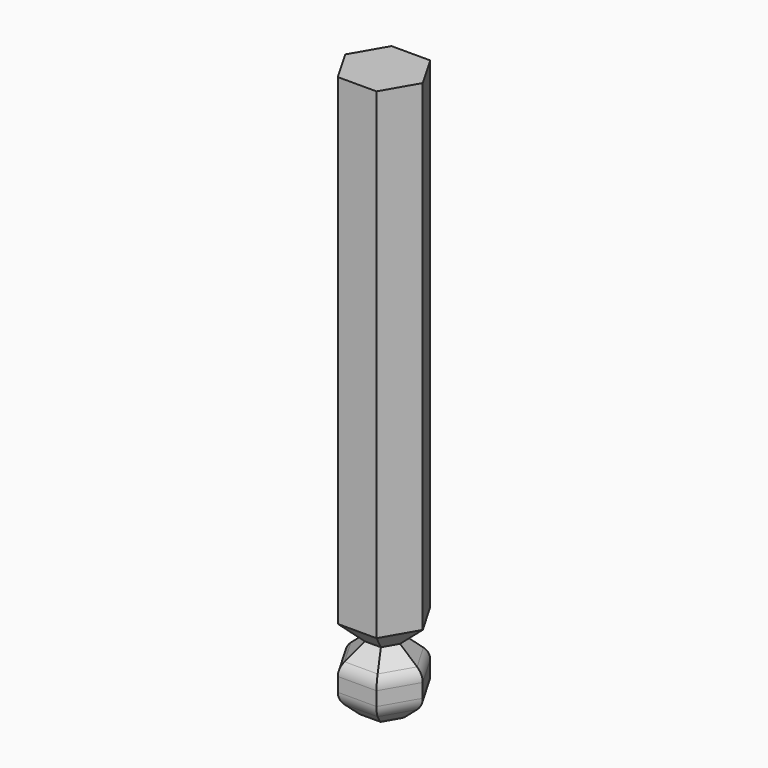
from build123d import *

# Parameters (mm, degrees)
F1_DEPTH      = 508
F7_DEPTH      = 34.6420161514
F7_DEPTH_BACK = 34.6420161514
F8_DEPTH      = 43.3022701892
F8_DEPTH_BACK = 43.3022701892
F9_DEPTH      = 43.3022701892
F9_DEPTH_BACK = 43.3022701892
F10_R         = 15


with BuildPart() as f1:
    # F0 (on Top) → F1 (new body)
    with BuildSketch(Plane.XY):
        Polygon((17.3205080757, 30), (-17.3205080757, 30), (-34.6410161514, 0), (-17.3205080757, -30), (17.3205080757, -30), (34.6410161514, 0), align=None)
    extrude(amount=F1_DEPTH)

    # F4 (on Right) → F7 (cut, two sides)
    with BuildSketch(Plane.YZ) as f7_sk:
        Polygon((12.4264068712, 60), (30, 42.4264068712), (30, 77.5735931288), align=None)
        Polygon((-30, 77.5735931288), (-30, 42.4264068712), (-12.4264068712, 60), align=None)
        Polygon((12.4264068712, 0), (-12.4264068712, 0), (-30, 17.5735931288), (-30, -5), (30, -5), (30, 17.5735931288), align=None)
    extrude(amount=F7_DEPTH, mode=Mode.SUBTRACT)
    extrude(f7_sk.sketch, amount=-F7_DEPTH_BACK, mode=Mode.SUBTRACT)

    # F5 (on mid) → F8 (cut, two sides)
    with BuildSketch(Plane(origin=(0, 0, 0), x_dir=(-0.8660254038, -0.5, 0), z_dir=(-0.5, 0.8660254038, 0))) as f8_sk:
        Polygon((12.4264068712, 60), (30, 42.4264068712), (30, 77.5735931288), align=None)
        Polygon((-30, 77.5735931288), (-30, 42.4264068712), (-12.4264068712, 60), align=None)
        Polygon((12.4264068712, 0), (-12.4264068712, 0), (-30, 17.5735931288), (-30, -5), (30, -5), (30, 17.5735931288), align=None)
    extrude(amount=F8_DEPTH, mode=Mode.SUBTRACT)
    extrude(f8_sk.sketch, amount=-F8_DEPTH_BACK, mode=Mode.SUBTRACT)

    # F6 (on mid) → F9 (cut, two sides)
    with BuildSketch(Plane(origin=(0, 0, 0), x_dir=(-0.8660254038, 0.5, 0), z_dir=(0.5, 0.8660254038, 0))) as f9_sk:
        Polygon((12.4264068712, 60), (30, 42.4264068712), (30, 77.5735931288), align=None)
        Polygon((-30, 77.5735931288), (-30, 42.4264068712), (-12.4264068712, 60), align=None)
        Polygon((12.4264068712, 0), (-12.4264068712, 0), (-30, 17.5735931288), (-30, -5), (30, -5), (30, 17.5735931288), align=None)
    extrude(amount=F9_DEPTH, mode=Mode.SUBTRACT)
    extrude(f9_sk.sketch, amount=-F9_DEPTH_BACK, mode=Mode.SUBTRACT)

    # F10
    f10_edges = [f1.edges().sort_by_distance(p)[0] for p in [
        (-25.980762, -15, 17.573593),
        (0, -30, 17.573593),
        (25.980762, -15, 17.573593),
        (25.980762, 15, 17.573593),
        (0, 30, 17.573593),
        (-25.980762, 15, 17.573593),
        (25.980762, 15, 42.426407),
        (25.980762, -15, 42.426407),
        (0, 30, 42.426407),
        (-25.980762, 15, 42.426407),
        (0, -30, 42.426407),
        (-25.980762, -15, 42.426407),
        (0, -12.426407, 0),
        (10.761584, -6.213203, 0),
        (10.761584, 6.213203, 0),
        (0, 12.426407, 0),
        (-10.761584, 6.213203, 0),
        (-10.761584, -6.213203, 0),
    ]]
    fillet(f10_edges, radius=F10_R)


solid = f1.part
